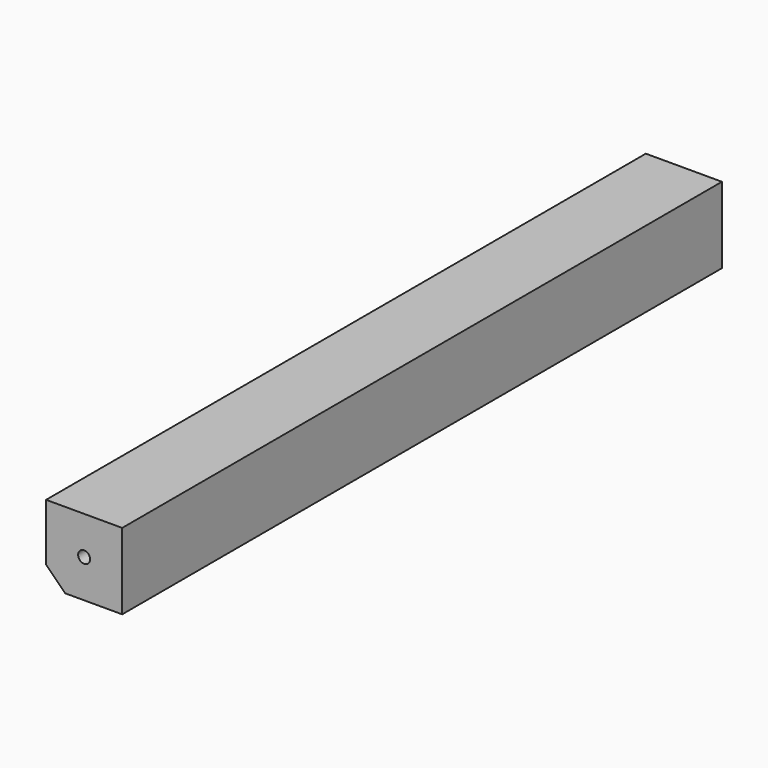
from build123d import *

# Parameters (mm, degrees)
F0_W          = 20
F0_H          = 20
F1_DEPTH      = 98.5
F1_DEPTH_BACK = 98.5
F2_SIZE       = 5
F4_D          = 3.15


with BuildPart() as f1:
    # F0 (on Front) → F1 (new body, two sides)
    with BuildSketch(Plane.XZ) as f1_sk:
        Rectangle(F0_W, F0_H)
    extrude(amount=F1_DEPTH)
    extrude(f1_sk.sketch, amount=-F1_DEPTH_BACK)

    # F2
    f2_edges = [f1.edges().sort_by_distance(p)[0] for p in [
        (-10, 0, -10),
    ]]
    chamfer(f2_edges, length=F2_SIZE)

    # F4 (through all)
    with Locations(Plane.XZ.offset(98.5)):
        with Locations((0, 0)):
            Hole(F4_D / 2)


solid = f1.part
